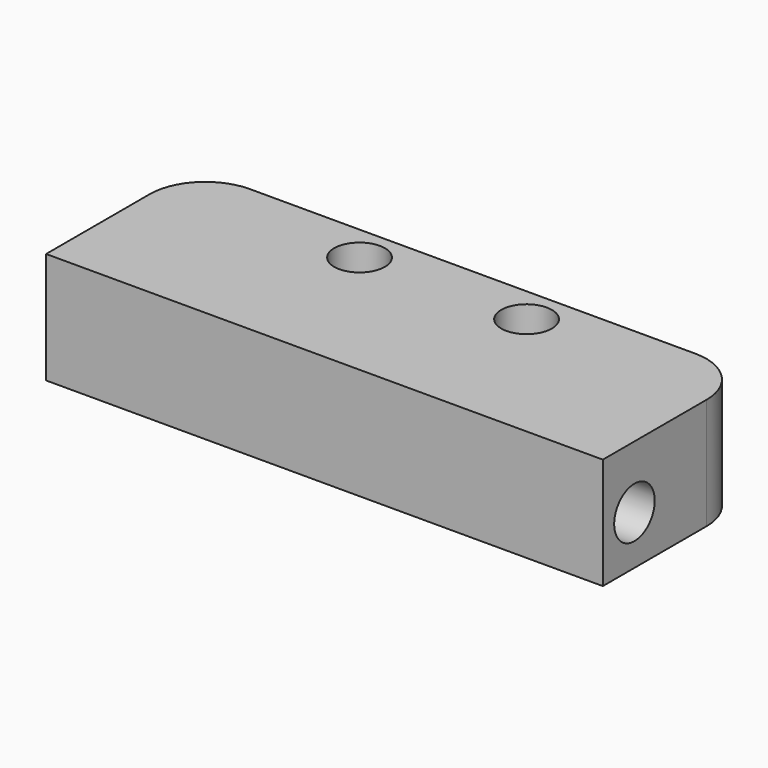
from build123d import *

# Parameters (mm, degrees)
F0_W     = 50.8
F0_H     = 6.731
F0_R     = 2.3114
F1_DEPTH = 10.16
F3_W     = 50.8
F3_H     = 10.16
F4_DEPTH = 10.16
F5_R     = 2.3114
F6_DEPTH = 70.36535
F7_R     = 5.08


with BuildPart() as f1:
    # F0 (on Top) → F1 (new body)
    with BuildSketch(Plane.XY):
        Rectangle(F0_W, F0_H)
        with Locations((-7.62, 0)):
            Circle(F0_R, mode=Mode.SUBTRACT)
        with Locations((7.62, 0)):
            Circle(F0_R, mode=Mode.SUBTRACT)
    extrude(amount=F1_DEPTH)

    # F3 (on face) → F4 (join)
    with BuildSketch(Plane.XZ.offset(3.3655)):
        with Locations((0, 5.08)):
            Rectangle(F3_W, F3_H)
    extrude(amount=F4_DEPTH)

    # F5 (on face) → F6 (cut)
    with BuildSketch(Plane.YZ.offset(25.4)):
        with Locations((-9.919893, 4.456782)):
            Circle(F5_R)
    extrude(amount=-F6_DEPTH, mode=Mode.SUBTRACT)

    # F7
    f7_edges = [f1.edges().sort_by_distance(p)[0] for p in [
        (-25.4, 3.3655, 5.08),
        (25.4, 3.3655, 5.08),
    ]]
    fillet(f7_edges, radius=F7_R)


solid = f1.part
